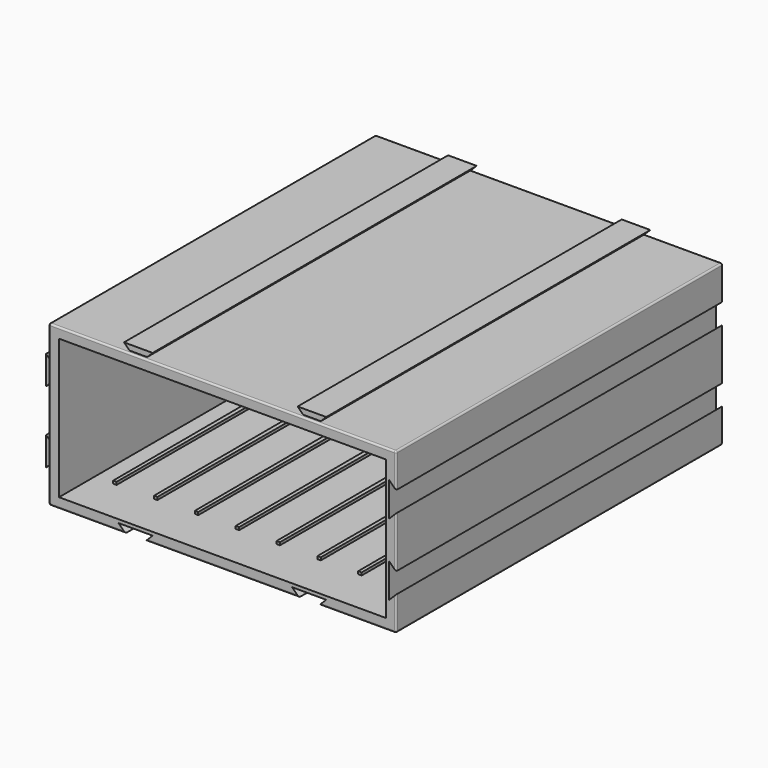
from build123d import *

# Parameters (mm, degrees)
EXTRUDE004_DEPTH                     = 120
EXTRUDE004_ONTO_SKETCH004_ROLL_ANGLE = 90
ARRAY005_X_COUNT                     = 2
ARRAY005_X_PITCH                     = 51
EXTRUDE001_DEPTH                     = 120
EXTRUDE001_ONTO_SKETCH001_ROLL_ANGLE = 90
ARRAY003_Z_COUNT                     = 2
ARRAY003_Z_PITCH                     = 21
BOX001_W                             = 96
BOX001_H                             = 118
BOX001_DEPTH                         = 41
BOX_W                                = 102
BOX_H                                = 120
BOX_DEPTH                            = 47
FILLET_R                             = 0.5
EXTRUDE003_DEPTH                     = 119
EXTRUDE003_ONTO_SKETCH003_ROLL_ANGLE = 90
ARRAY_X_COUNT                        = 2
ARRAY_X_PITCH                        = 51
EXTRUDE002_DEPTH                     = 119
EXTRUDE002_ONTO_SKETCH002_ROLL_ANGLE = 90
ARRAY004_Z_COUNT                     = 2
ARRAY004_Z_PITCH                     = 21
EXTRUDE_DEPTH                        = 0.8
ARRAY002_X_COUNT                     = 8
ARRAY002_X_PITCH                     = 12


with BuildPart() as bottomsideguidearray:
    # Sketch004 as drawn → Extrude004 (new)
    with BuildSketch(Plane.XY):
        Polygon((-6, 1), (4, 1), (2, -1), (-4, -1), align=None)
    extrude(amount=-EXTRUDE004_DEPTH)


with BuildPart() as bottomsideguidearray_1:
    # Extrude004 onto Sketch004 roll: moved
    add(bottomsideguidearray.part.rotate(Axis((0, 0, 0), (1, 0, 0)), EXTRUDE004_ONTO_SKETCH004_ROLL_ANGLE))


with BuildPart() as bottomsideguidearray_2:
    # Extrude004 onto Sketch004 placement: moved
    add(bottomsideguidearray_1.part)


with BuildPart() as bottomsideguidearray_3:
    # Extrude004 placement: moved
    add(bottomsideguidearray_2.part.moved(Location((25.5, 0, 0))))

    # Array005 X: BottomSideGuideArray ×2


with BuildPart() as bottomsideguidearray_4:
    add(bottomsideguidearray_3.part)
    with Locations(*[(i * ARRAY005_X_PITCH, 0, 0) for i in range(1, ARRAY005_X_COUNT)]):
        add(bottomsideguidearray_3.part)


with BuildPart() as guidegaps:
    # Sketch001 as drawn → Extrude001 (new)
    with BuildSketch(Plane.XY):
        Polygon((0, 0), (0, 10), (2, 8), (2, 2), align=None)
    extrude(amount=-EXTRUDE001_DEPTH)


with BuildPart() as guidegaps_1:
    # Extrude001 onto Sketch001 roll: moved
    add(guidegaps.part.rotate(Axis((0, 0, 0), (1, 0, 0)), EXTRUDE001_ONTO_SKETCH001_ROLL_ANGLE))


with BuildPart() as guidegaps_2:
    # Extrude001 onto Sketch001 placement: moved
    add(guidegaps_1.part.moved(Location((99, 0, 7))))

    # Array003 Z: GuideGaps ×2


with BuildPart() as guidegaps_3:
    add(guidegaps_2.part)
    with Locations(*[(0, 0, i * ARRAY003_Z_PITCH) for i in range(1, ARRAY003_Z_COUNT)]):
        add(guidegaps_2.part)

    # Fusion003: union BottomSideGuideArray
    add(bottomsideguidearray_4.part)


with BuildPart() as inner_box:
    # Box001 → Box001 (new body)
    with BuildSketch(Plane(origin=(2, 0, 2), x_dir=(1, 0, 0), z_dir=(0, 0, 1))):
        with Locations((48, 59)):
            Rectangle(BOX001_W, BOX001_H)
    extrude(amount=BOX001_DEPTH)


with BuildPart() as filletedcase:
    # Box → Box (new body)
    with BuildSketch(Plane(origin=(-1, 0, -1), x_dir=(1, 0, 0), z_dir=(0, 0, 1))):
        with Locations((51, 60)):
            Rectangle(BOX_W, BOX_H)
    extrude(amount=BOX_DEPTH)

    # Cut: cut Inner Box
    add(inner_box.part, mode=Mode.SUBTRACT)

    # Fillet
    fillet_edges = [filletedcase.edges().sort_by_distance(p)[0] for p in [
        (-1, 0, 22.5),
        (-1, 60, 46),
        (-1, 120, 22.5),
        (-1, 60, -1),
        (50, 0, -1),
        (101, 0, 22.5),
        (50, 0, 46),
        (50, 120, 46),
        (101, 60, 46),
        (50, 120, -1),
        (101, 120, 22.5),
        (101, 60, -1),
    ]]
    fillet(fillet_edges, radius=FILLET_R)


with BuildPart() as topsideguidearray:
    # Sketch003 as drawn → Extrude003 (new)
    with BuildSketch(Plane.XY):
        Polygon((-5.2, 47.6), (3.2, 47.6), (1.6, 46), (-3.6, 46), align=None)
    extrude(amount=-EXTRUDE003_DEPTH)


with BuildPart() as topsideguidearray_1:
    # Extrude003 onto Sketch003 roll: moved
    add(topsideguidearray.part.rotate(Axis((0, 0, 0), (1, 0, 0)), EXTRUDE003_ONTO_SKETCH003_ROLL_ANGLE))


with BuildPart() as topsideguidearray_2:
    # Extrude003 onto Sketch003 placement: moved
    add(topsideguidearray_1.part)


with BuildPart() as topsideguidearray_3:
    # Extrude003 placement: moved
    add(topsideguidearray_2.part.moved(Location((25.5, 1, 0))))

    # Array X: TopSideGuideArray ×2


with BuildPart() as topsideguidearray_4:
    add(topsideguidearray_3.part)
    with Locations(*[(i * ARRAY_X_PITCH, 0, 0) for i in range(1, ARRAY_X_COUNT)]):
        add(topsideguidearray_3.part)


with BuildPart() as guiderods:
    # Sketch002 as drawn → Extrude002 (new)
    with BuildSketch(Plane.XY):
        Polygon((0.4, 9.2), (0.4, 0.8), (2, 2.4), (2, 7.6), align=None)
    extrude(amount=-EXTRUDE002_DEPTH)


with BuildPart() as guiderods_1:
    # Extrude002 onto Sketch002 roll: moved
    add(guiderods.part.rotate(Axis((0, 0, 0), (1, 0, 0)), EXTRUDE002_ONTO_SKETCH002_ROLL_ANGLE))


with BuildPart() as guiderods_2:
    # Extrude002 onto Sketch002 placement: moved
    add(guiderods_1.part.moved(Location((-1, 0, 7))))


with BuildPart() as guiderods_3:
    # Extrude002 placement: moved
    add(guiderods_2.part.moved(Location((-2, 1, 0))))

    # Array004 Z: GuideRods ×2


with BuildPart() as guiderods_4:
    add(guiderods_3.part)
    with Locations(*[(0, 0, i * ARRAY004_Z_PITCH) for i in range(1, ARRAY004_Z_COUNT)]):
        add(guiderods_3.part)

    # Fusion002: union TopSideGuideArray
    add(topsideguidearray_4.part)


with BuildPart() as finalcabinet:
    # Sketch → Extrude (new body)
    with BuildSketch(Plane.XY):
        Polygon((0.5, 0), (0.25, 104), (0.25, 105), (1.75, 105), (1.75, 104), (1.5, 0), align=None)
    extrude(amount=EXTRUDE_DEPTH)

    # Array002 X: FinalCabinet ×8


with BuildPart() as finalcabinet_1:
    add(finalcabinet.part)
    with Locations(*[(i * ARRAY002_X_PITCH, 0, 0) for i in range(1, ARRAY002_X_COUNT)]):
        add(finalcabinet.part)


with BuildPart() as finalcabinet_2:
    # Array002 placement: moved
    add(finalcabinet_1.part.moved(Location((7, 13, 2))))

    # Fusion: union FilletedCase, GuideRods
    add(filletedcase.part)
    add(guiderods_4.part)

    # Cut001: cut GuideGaps
    add(guidegaps_3.part, mode=Mode.SUBTRACT)


solid = finalcabinet_2.part
